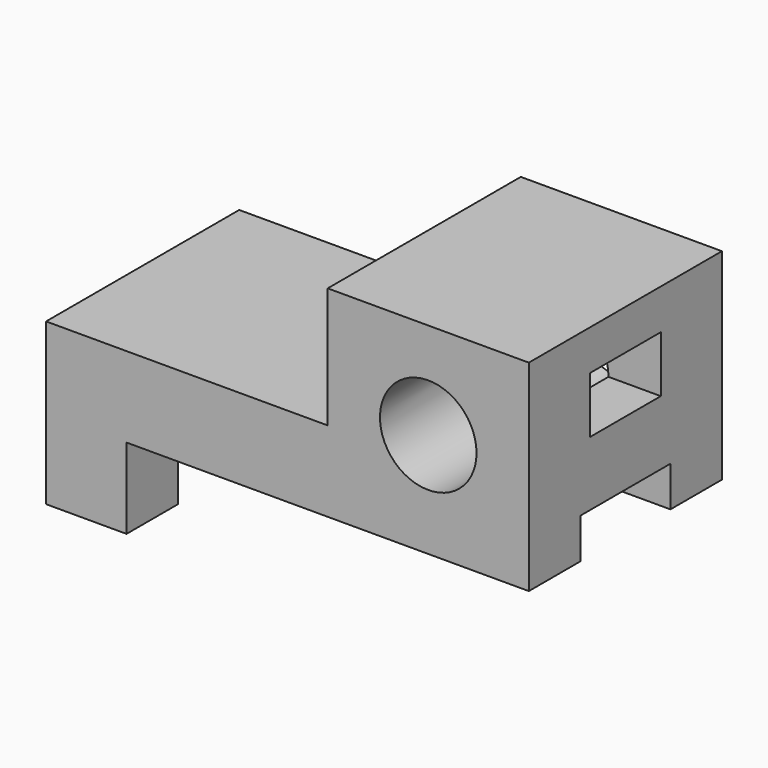
from build123d import *

# Parameters (mm, degrees)
F0_R     = 120
F1_DEPTH = 600
F2_W     = 220
F2_H     = 140
F3_DEPTH = 1200.001
F4_W     = 280
F4_H     = 300
F5_DEPTH = 1200.001


with BuildPart() as f1:
    # F0 (on Front) → F1 (new body)
    with BuildSketch(Plane.XZ):
        with Locations((350, 110)):
            Circle(F0_R)
        Polygon((600, 110), (600, 350), (100, 350), (100, 50), (-600, 50), (-600, -350), (-400, -350), (-400, -150), (600, -150), (600, 50), align=None)
        with Locations((350, 110)):
            Circle(F0_R, mode=Mode.SUBTRACT)
    extrude(amount=F1_DEPTH)

    # F2 (on face) → F3 (cut, through all)
    with BuildSketch(Plane.YZ.offset(600)):
        with Locations((-300, 180)):
            Rectangle(F2_W, F2_H)
    extrude(amount=-F3_DEPTH, mode=Mode.SUBTRACT)

    # F4 (on face) → F5 (cut, through all)
    with BuildSketch(Plane(origin=(-600, 0, 0), x_dir=(0, -1, 0), z_dir=(-1, 0, 0))):
        with Locations((300, -200)):
            Rectangle(F4_W, F4_H)
    extrude(amount=-F5_DEPTH, mode=Mode.SUBTRACT)


solid = f1.part
